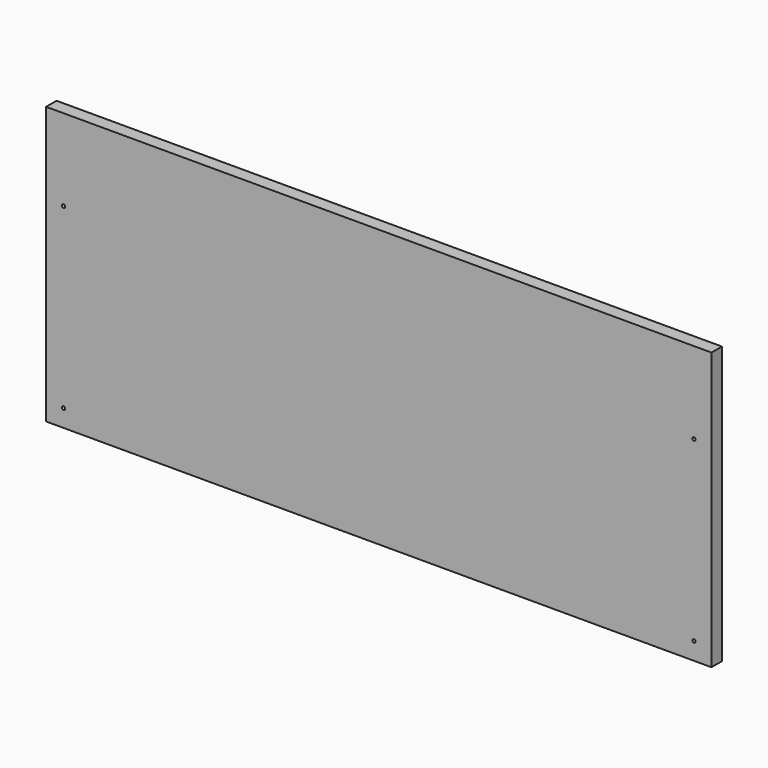
from build123d import *

# Parameters (mm, degrees)
F0_W     = 610
F0_H     = 254
F0_R     = 1.5
F1_DEPTH = 6


with BuildPart() as f1:
    # F0 (on Front) → F1 (new body, symmetric)
    with BuildSketch(Plane.XZ):
        Rectangle(F0_W, F0_H)
        with Locations((-289, -111)):
            Circle(F0_R, mode=Mode.SUBTRACT)
        with Locations((289, -111)):
            Circle(F0_R, mode=Mode.SUBTRACT)
        with Locations((-289, 52)):
            Circle(F0_R, mode=Mode.SUBTRACT)
        with Locations((289, 52)):
            Circle(F0_R, mode=Mode.SUBTRACT)
    extrude(amount=F1_DEPTH, both=True)


solid = f1.part
